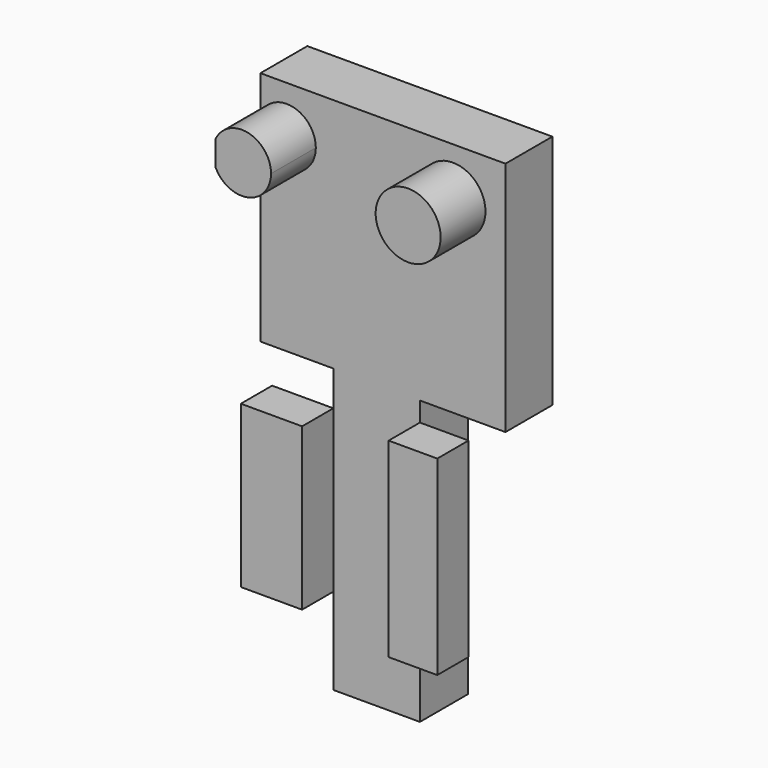
from build123d import *

# Parameters (mm, degrees)
F0_W     = 47.7784844115
F0_H     = 46.0721075069
F1_DEPTH = 11.43
F2_R     = 6.3366292435
F3_DEPTH = 10.922
F4_W     = 16.8741475791
F4_H     = 55.1727705169
F5_DEPTH = 11.684
F6_W     = 11.9446180761
F6_H     = 31.4731267281
F7_DEPTH = 7.62
F6_W_2   = 9.4798579812
F6_H_2   = 37.1610440779


with BuildPart() as f1:
    # F0 (on Front) → F1 (new body)
    with BuildSketch(Plane.XZ):
        with Locations((-35.4546695016, 24.552831077)):
            Rectangle(F0_W, F0_H)
    extrude(amount=F1_DEPTH)

    # F2 (on face) → F3 (join)
    with BuildSketch(Plane.XZ.offset(11.43)):
        with Locations((-21.8036733568, 38.1090268493)):
            Circle(F2_R)
        with BuildLine():
            ThreePointArc((-59.3439117074, 35.8338771532), (-52.9607297218, 32.7594376902), (-48.5431977535, 38.298625499))
            ThreePointArc((-48.5431977535, 38.298625499), (-52.9607297218, 43.8378133078), (-59.3439117074, 40.7633738449))
            Line((-59.3439117074, 40.7633738449), (-59.3439117074, 35.8338771532))
        make_face()
    extrude(amount=F3_DEPTH)

    # F4 (on face) → F5 (join)
    with BuildSketch(Plane.XZ.offset(11.43)):
        with Locations((-36.6870509461, -26.0696079349)):
            Rectangle(F4_W, F4_H)
    extrude(amount=-F5_DEPTH)


with BuildPart() as f7:
    # F6 (on face) → F7 (new body)
    with BuildSketch(Plane.XZ.offset(11.43)):
        with Locations((-51.0964337736, -21.0452841129)):
            Rectangle(F6_W, F6_H)
    extrude(amount=F7_DEPTH)


with BuildPart() as f7b:
    # F6 (on face) → F7, piece 2 (new body)
    with BuildSketch(Plane.XZ.offset(11.43)):
        with Locations((-23.5100481659, -20.8556879079)):
            Rectangle(F6_W_2, F6_H_2)
    extrude(amount=F7_DEPTH)


solid = Compound([f1.part, f7.part, f7b.part])
